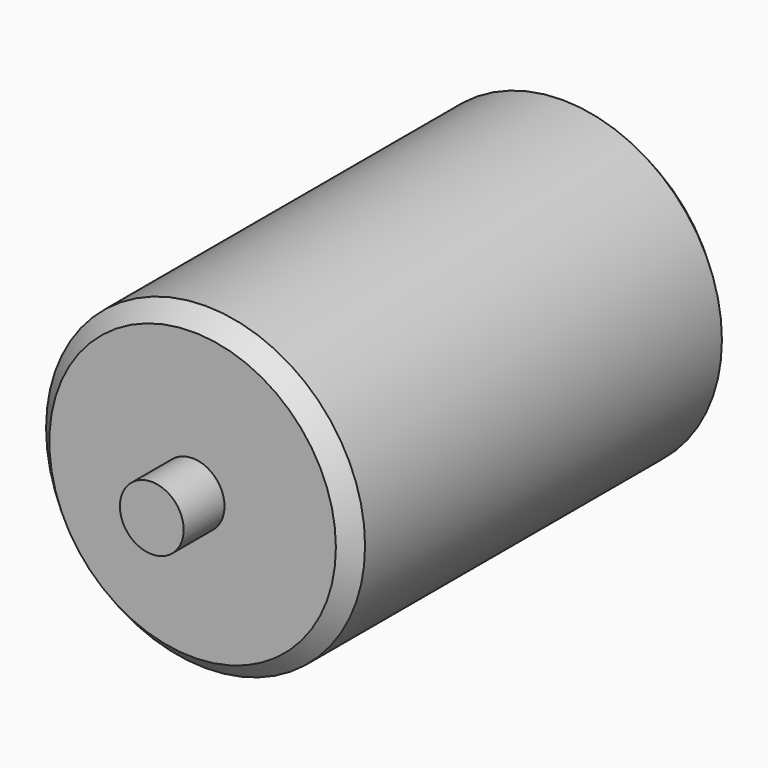
from build123d import *

# Parameters (mm, degrees)
F0_R      = 50
F1_DEPTH  = 75
F1_FACE_R = 50
F2_DEPTH  = 75
F3_R      = 10
F4_DEPTH  = 16
F5_R      = 10
F6_DEPTH  = 16
F7_SIZE   = 5.08
F8_SIZE   = 5.08


with BuildPart() as f1:
    # F0 (on Front) → F1 (new body)
    with BuildSketch(Plane.XZ):
        Circle(F0_R)
    extrude(amount=F1_DEPTH)

    # F1_face (on face) → F2 (join)
    with BuildSketch(Plane(origin=(0, 0, 0), x_dir=(1, 0, 0), z_dir=(0, 1, 0))):
        Circle(F1_FACE_R)
    extrude(amount=F2_DEPTH)

    # F3 (on face) → F4 (join)
    with BuildSketch(Plane(origin=(0, 75, 0), x_dir=(-1, 0, 0), z_dir=(0, 1, 0))):
        Circle(F3_R)
    extrude(amount=F4_DEPTH)

    # F5 (on face) → F6 (join)
    with BuildSketch(Plane.XZ.offset(75)):
        Circle(F5_R)
    extrude(amount=F6_DEPTH)

    # F7
    f7_edges = [f1.edges().sort_by_distance(p)[0] for p in [
        (-50, -75, 0),
    ]]
    chamfer(f7_edges, length=F7_SIZE)

    # F8
    f8_edges = [f1.edges().sort_by_distance(p)[0] for p in [
        (-50, 75, 0),
    ]]
    chamfer(f8_edges, length=F8_SIZE)


solid = f1.part
